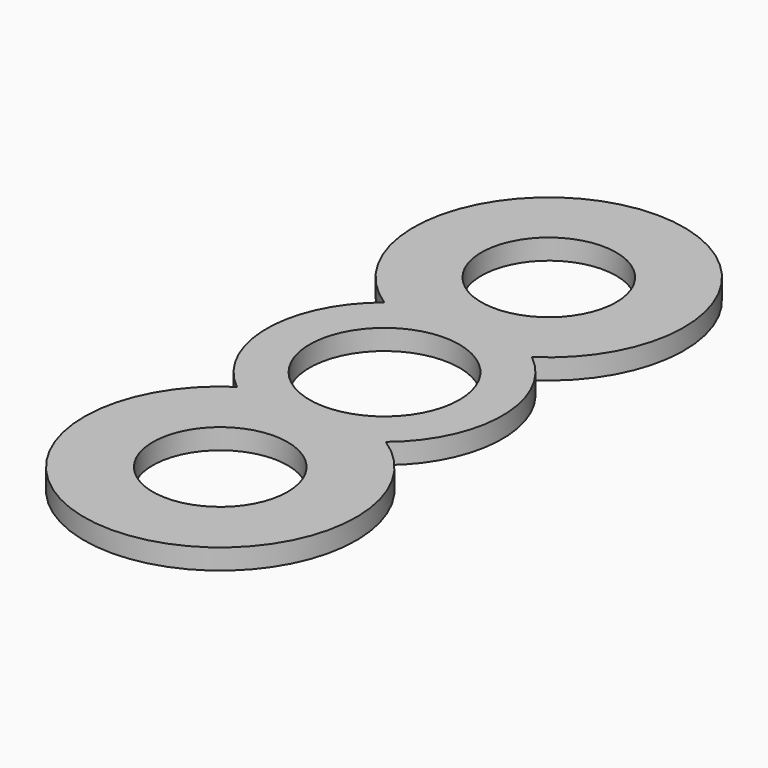
from build123d import *

# Parameters (mm, degrees)
F0_R     = 9.9
F0_R_2   = 11
F1_DEPTH = 3


with BuildPart() as f1:
    # F0 (on Top) → F1 (new body)
    with BuildSketch(Plane.XY):
        with BuildLine():
            ThreePointArc((-10.834413, 13.49467), (-17.305692, 0.060507), (-10.928512, -13.418579))
            ThreePointArc((-10.928512, -13.418579), (0, -50.121454), (10.928512, -13.418579))
            ThreePointArc((10.928512, -13.418579), (17.305692, 0.060507), (10.834413, 13.49467))
            ThreePointArc((10.834413, 13.49467), (0, 50.005647), (-10.834413, 13.49467))
        make_face()
        with Locations((0, -30.143)):
            Circle(F0_R, mode=Mode.SUBTRACT)
        Circle(F0_R_2, mode=Mode.SUBTRACT)
        with Locations((0, 30.142635)):
            Circle(F0_R, mode=Mode.SUBTRACT)
    extrude(amount=F1_DEPTH)


solid = f1.part
